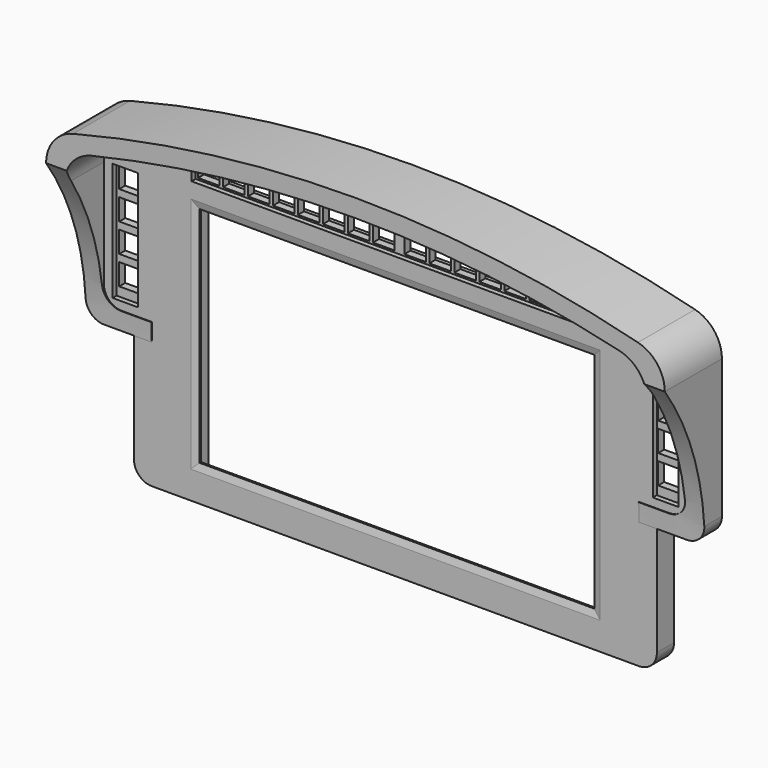
from build123d import *

# Parameters (mm, degrees)
PAD005_DEPTH            = 10
SKETCH008_W             = 110.6
SKETCH008_H             = 62.6
PAD006_DEPTH            = 6
SKETCH007_W             = 120.3
SKETCH007_H             = 69.7
POCKET_DEPTH            = 5
POCKET001_DEPTH         = 173.661
SKETCH016_W             = 6
SKETCH016_H             = 6
POCKET004_DEPTH         = 407.203306
SKETCH017_W             = 57.1
SKETCH017_H             = 7
SKETCH017_W_2           = 7.140693
SKETCH017_H_2           = 33.113783
POCKET005_DEPTH         = 1.4
POCKET006_DEPTH         = 2.5
SKETCH025_R             = 4.5
SKETCH025_R_2           = 2.49
PAD014_DEPTH            = 1
SKETCH026_R             = 2.49
POCKET010_DEPTH         = 5
CHAMFER_SIZE2           = 0.5
CHAMFER_SIZE            = 2
SKETCH027_R             = 2.75
POCKET011_DEPTH         = 1.5
BODY002_PLACEMENT_ANGLE = 180


with BuildPart() as part:
    # Sketch005 → Pad005 (new body, symmetric)
    with BuildSketch(Plane.XZ):
        with BuildLine():
            Line((73.255, 35.51), (73.255, 5))
            ThreePointArc((68.255, 0), (71.790534, 1.464466), (73.255, 5))
            Line((68.255, 0), (-68.255, 0))
            ThreePointArc((-73.255, 5), (-71.790534, 1.464466), (-68.255, 0))
            Line((-73.255, 5), (-73.255, 35.51))
            Line((-73.255, 35.51), (-81.66, 35.51))
            ThreePointArc((-86.66, 40.51), (-85.195534, 36.974466), (-81.66, 35.51))
            Line((-86.66, 40.51), (-86.66, 79.371844))
            ThreePointArc((-79.132903, 89.061258), (-84.557121, 85.50662), (-86.66, 79.371844))
            ThreePointArc((79.132903, 89.061258), (0, 99), (-79.132903, 89.061258))
            ThreePointArc((86.66, 79.371844), (84.557121, 85.50662), (79.132903, 89.061258))
            Line((86.66, 79.371844), (86.66, 40.51))
            ThreePointArc((81.66, 35.51), (85.195534, 36.974466), (86.66, 40.51))
            Line((81.66, 35.51), (73.255, 35.51))
        make_face()
        with BuildLine():
            Line((81.66, 75.603787), (81.66, 45.51))
            ThreePointArc((76.66, 40.51), (80.195534, 41.974466), (81.66, 45.51))
            Line((76.66, 40.51), (68.255, 40.51))
            Line((68.255, 40.51), (68.255, 10))
            ThreePointArc((63.255, 5), (66.790534, 6.464466), (68.255, 10))
            Line((63.255, 5), (-63.255, 5))
            ThreePointArc((-68.255, 10), (-66.790534, 6.464466), (-63.255, 5))
            Line((-68.255, 40.51), (-68.255, 10))
            Line((-76.66, 40.51), (-68.255, 40.51))
            ThreePointArc((-81.66, 45.51), (-80.195534, 41.974466), (-76.66, 40.51))
            Line((-81.66, 45.51), (-81.66, 75.603787))
            ThreePointArc((-73.971613, 85.332942), (-79.505895, 81.803943), (-81.66, 75.603787))
            ThreePointArc((73.971613, 85.332942), (0, 94), (-73.971613, 85.332942))
            ThreePointArc((81.66, 75.603787), (79.505895, 81.803943), (73.971613, 85.332942))
        make_face(mode=Mode.SUBTRACT)
    extrude(amount=PAD005_DEPTH, both=True)

    # Sketch008 → Pad006 (join)
    with BuildSketch(Plane.XZ.offset(4)):
        with BuildLine():
            Line((86.66, 79.371844), (86.66, 40.51))
            ThreePointArc((81.66, 35.51), (85.195534, 36.974466), (86.66, 40.51))
            Line((81.66, 35.51), (73.255, 35.51))
            Line((73.255, 35.51), (73.255, 5))
            ThreePointArc((68.255, 0), (71.790534, 1.464466), (73.255, 5))
            Line((68.255, 0), (-68.255, 0))
            ThreePointArc((-73.255, 5), (-71.790534, 1.464466), (-68.255, 0))
            Line((-73.255, 35.51), (-73.255, 5))
            Line((-81.66, 35.51), (-73.255, 35.51))
            ThreePointArc((-86.66, 40.51), (-85.195534, 36.974466), (-81.66, 35.51))
            Line((-86.66, 40.51), (-86.66, 79.371844))
            ThreePointArc((-79.132903, 89.061258), (-84.557121, 85.50662), (-86.66, 79.371844))
            ThreePointArc((79.132903, 89.061258), (0, 99), (-79.132903, 89.061258))
            ThreePointArc((86.66, 79.371844), (84.557121, 85.50662), (79.132903, 89.061258))
        make_face()
        with Locations((0, 41.080998)):
            Rectangle(SKETCH008_W, SKETCH008_H, mode=Mode.SUBTRACT)
    extrude(amount=PAD006_DEPTH)

    # Sketch007 → Pocket (cut)
    with BuildSketch(Plane(origin=(0, -10, 41), x_dir=(1, 0, 0), z_dir=(0, -1, 0))):
        with Locations((-3.04, -0.08)):
            Rectangle(SKETCH007_W, SKETCH007_H)
    extrude(amount=-POCKET_DEPTH, mode=Mode.SUBTRACT)

    # Sketch009 → Pocket001 (cut, through all)
    with BuildSketch(Plane.YZ.offset(87)):
        with BuildLine():
            Line((10, 0), (-4, 0))
            Line((-4, 0), (-4, 35.51))
            ThreePointArc((10, 79.371844), (-0.415127, 58.530976), (-4, 35.51))
            Line((10, 79.371844), (10, 0))
        make_face()
    extrude(amount=-POCKET001_DEPTH, mode=Mode.SUBTRACT)

    # Sketch016 → Pocket004 (cut, through all)
    with BuildSketch(Plane(origin=(0, -4, 83), x_dir=(1, 0, 0), z_dir=(0, -1, 0))):
        with Locations((-4.4, -0.684295)):
            Rectangle(SKETCH016_W, SKETCH016_H)
        with Locations((-11.4, -0.684295)):
            Rectangle(SKETCH016_W, SKETCH016_H)
        with Locations((-18.4, -0.684295)):
            Rectangle(SKETCH016_W, SKETCH016_H)
        with Locations((-25.4, -0.684295)):
            Rectangle(SKETCH016_W, SKETCH016_H)
        with Locations((-32.4, -0.684295)):
            Rectangle(SKETCH016_W, SKETCH016_H)
        with Locations((-39.4, -0.684295)):
            Rectangle(SKETCH016_W, SKETCH016_H)
        with Locations((-46.4, -0.684295)):
            Rectangle(SKETCH016_W, SKETCH016_H)
        with Locations((-53.4, -0.684295)):
            Rectangle(SKETCH016_W, SKETCH016_H)
        with Locations((-75.4842, -10.622986)):
            Rectangle(SKETCH016_W, SKETCH016_H)
        with Locations((-75.4842, -18.622986)):
            Rectangle(SKETCH016_W, SKETCH016_H)
        with Locations((-75.4842, -26.622986)):
            Rectangle(SKETCH016_W, SKETCH016_H)
        with Locations((-75.4842, -34.622986)):
            Rectangle(SKETCH016_W, SKETCH016_H)
    pocket004 = extrude(amount=POCKET004_DEPTH, mode=Mode.SUBTRACT)

    # Mirrored: Pocket004 across Sketch016 V_Axis
    add(pocket004.mirror(Plane(origin=(0, -4, 83), x_dir=(0, -1, 0), z_dir=(1, 0, 0))), mode=Mode.SUBTRACT)

    # Sketch017 → Pocket005 (cut)
    with BuildSketch(Plane.XZ.offset(4)):
        with Locations((-28.55, 82.315705)):
            Rectangle(SKETCH017_W, SKETCH017_H)
        with Locations((-75.662456, 59.410202)):
            Rectangle(SKETCH017_W_2, SKETCH017_H_2)
    pocket005 = extrude(amount=POCKET005_DEPTH, mode=Mode.SUBTRACT)

    # Mirrored001: Pocket005 across Sketch017 V_Axis
    add(pocket005.mirror(Plane(origin=(0, -4, 0), x_dir=(0, -1, 0), z_dir=(1, 0, 0))), mode=Mode.SUBTRACT)

    # Sketch018 → Pocket006 (cut)
    with BuildSketch(Plane.XZ.offset(10)):
        with BuildLine():
            Line((-57.386474, 90.315705), (0, 90.315705))
            Line((0, 90.315705), (0, 78.315705))
            Line((0, 78.315705), (-70.103562, 78.315705))
            Line((-70.103562, 78.315705), (-70.103562, 42.853311))
            Line((-70.103562, 42.853311), (-82.103562, 42.853311))
            Line((-82.103562, 42.853311), (-82.103562, 76.703498))
            Line((-82.103562, 76.703498), (-78.767049, 76.703498))
            ThreePointArc((-78.767049, 76.703498), (-77.010511, 77.221171), (-75.815463, 78.608712))
            Line((-75.815463, 78.608712), (-74.423301, 81.689645))
            ThreePointArc((-67.708462, 87.44668), (-71.706012, 85.314792), (-74.423301, 81.689645))
            Line((-67.708462, 87.44668), (-57.386474, 90.315705))
        make_face()
    pocket006 = extrude(amount=-POCKET006_DEPTH, mode=Mode.SUBTRACT)

    # Mirrored002: Pocket006 across Sketch018 V_Axis
    add(pocket006.mirror(Plane(origin=(0, -10, 0), x_dir=(0, -1, 0), z_dir=(1, 0, 0))), mode=Mode.SUBTRACT)

    # Sketch025 → Pad014 (join)
    with BuildSketch(Plane.XZ.offset(9)):
        with Locations((79.61305, 81.665882)):
            Circle(SKETCH025_R)
        with Locations((79.61305, 81.665882)):
            Circle(SKETCH025_R_2, mode=Mode.SUBTRACT)
        with Locations((-79.61305, 81.665882)):
            Circle(SKETCH025_R)
        with Locations((-79.61305, 81.665882)):
            Circle(SKETCH025_R_2, mode=Mode.SUBTRACT)
    extrude(amount=PAD014_DEPTH)

    # Sketch026 → Pocket010 (cut)
    with BuildSketch(Plane.XZ.offset(10)):
        with Locations((79.61305, 81.665882)):
            Circle(SKETCH026_R)
        with Locations((-79.61305, 81.665882)):
            Circle(SKETCH026_R)
    extrude(amount=-POCKET010_DEPTH, mode=Mode.SUBTRACT)

    # Chamfer
    chamfer_edges = [part.edges().sort_by_distance(p)[0] for p in [
        (0, -4, 9.780998),
        (-55.3, -4, 41.080998),
        (55.3, -4, 41.080998),
        (0, -4, 72.380998),
    ]]
    chamfer_side = part.faces().sort_by_distance((70.458066, -4, 2.796934))[0]
    chamfer(chamfer_edges, length=CHAMFER_SIZE, length2=CHAMFER_SIZE2, reference=chamfer_side)

    # Sketch027 → Pocket011 (cut)
    with BuildSketch(Plane.XZ.offset(10)):
        with Locations((-66.790534, 6.464466)):
            Circle(SKETCH027_R)
        with Locations((66.790534, 6.464466)):
            Circle(SKETCH027_R)
    extrude(amount=-POCKET011_DEPTH, mode=Mode.SUBTRACT)


with BuildPart() as part_1:
    # Body002 placement: moved
    add(part.part.moved(Location((0, -88, 0))).rotate(Axis((0, -88, 0), (0, 0, 1)), BODY002_PLACEMENT_ANGLE))


solid = part_1.part
